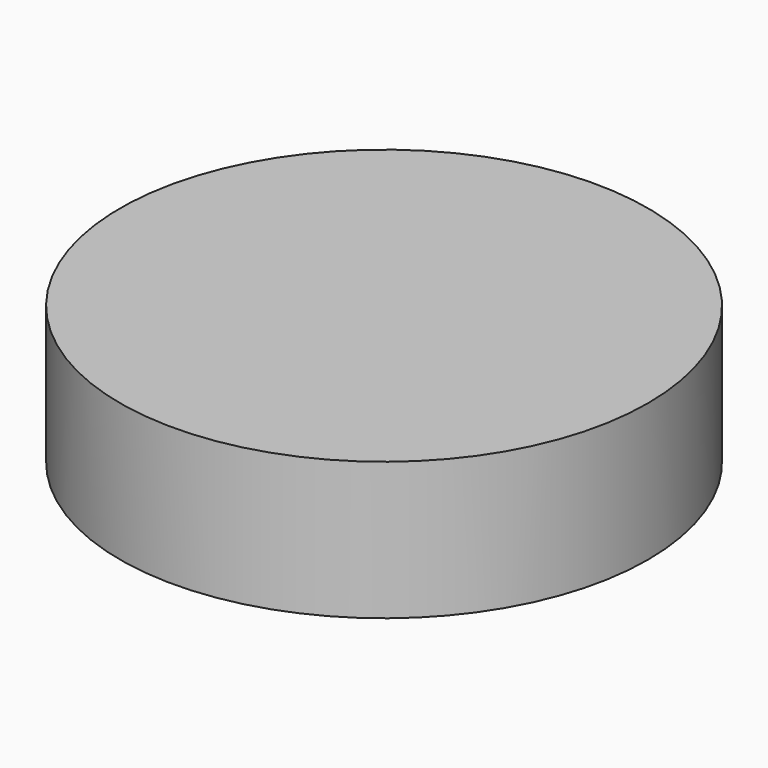
from build123d import *

# Parameters (mm, degrees)
F0_R     = 48.657268
F1_DEPTH = 25.4
F2_W     = 34.458288
F2_H     = 28.057468
F3_DEPTH = 25.4


with BuildPart() as f1:
    # F0 (on Top) → F1 (new body)
    with BuildSketch(Plane.XY):
        Circle(F0_R)
    extrude(amount=F1_DEPTH)

    # F2 (on Top) → F3 (join)
    with BuildSketch(Plane.XY):
        Rectangle(F2_W, F2_H)
    extrude(amount=F3_DEPTH)


solid = f1.part
